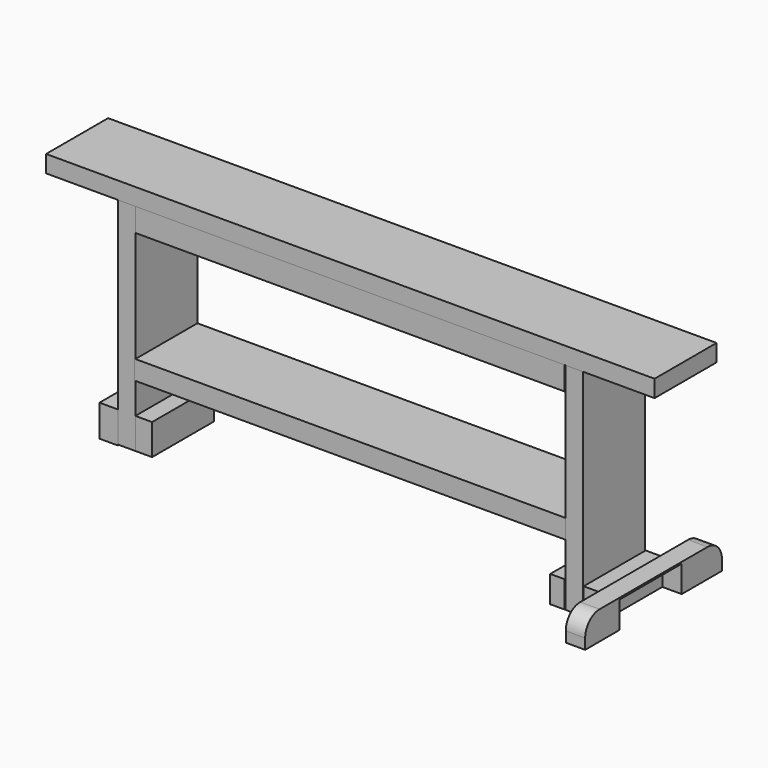
from build123d import *

# Parameters (mm, degrees)
F0_W      = 199.4095370173
F0_H      = 5.6075388566
F9_DEPTH  = 25.4
F1_W      = 5.7443082333
F1_H      = 70.5729266629
F2_W      = 5.7443156838
F2_H      = 70.5729266629
F3_W      = 6.0178413987
F3_H      = 10.394461453
F4_W      = 5.4707750678
F4_H      = 10.1209282875
F5_W      = 5.4707750678
F5_H      = 8.7532326579
F6_W      = 4.6501532197
F6_H      = 8.7532326579
F7_W      = 141.1458402872
F7_H      = 6.2913820148
F8_W      = 140.5987739563
F8_H      = 7.659076713
F11_DEPTH = 6.35


with BuildPart() as f9:
    # F0 (on Front) → F9 (new body)
    with BuildSketch(Plane.XZ):
        with Locations((-3.7253e-06, -2.8037694283)):
            Rectangle(F0_W, F0_H)
    extrude(amount=F9_DEPTH)


with BuildPart() as f9b:
    # F1 (on Front) → F9, piece 2 (new body)
    with BuildSketch(Plane.XZ):
        with Locations((-73.3083114028, -40.894002188)):
            Rectangle(F1_W, F1_H)
    extrude(amount=F9_DEPTH)


with BuildPart() as f9c:
    # F2 (on Front) → F9, piece 3 (new body)
    with BuildSketch(Plane.XZ):
        with Locations((73.3083076775, -40.894002188)):
            Rectangle(F2_W, F2_H)
    extrude(amount=F9_DEPTH)


with BuildPart() as f9d:
    # F3 (on Front) → F9, piece 4 (new body)
    with BuildSketch(Plane.XZ):
        with Locations((-79.1893862188, -71.2567679584)):
            Rectangle(F3_W, F3_H)
    extrude(amount=F9_DEPTH)


with BuildPart() as f9e:
    # F4 (on Front) → F9, piece 5 (new body)
    with BuildSketch(Plane.XZ):
        with Locations((-67.7007697523, -71.1200013757)):
            Rectangle(F4_W, F4_H)
    extrude(amount=F9_DEPTH)


with BuildPart() as f9f:
    # F5 (on Front) → F9, piece 6 (new body)
    with BuildSketch(Plane.XZ):
        with Locations((79.1893862188, -71.8038491905)):
            Rectangle(F5_W, F5_H)
    extrude(amount=F9_DEPTH)


with BuildPart() as f9g:
    # F6 (on Front) → F9, piece 7 (new body)
    with BuildSketch(Plane.XZ):
        with Locations((67.8375400603, -71.8038491905)):
            Rectangle(F6_W, F6_H)
    extrude(amount=F9_DEPTH)


with BuildPart() as f9h:
    # F7 (on Front) → F9, piece 8 (new body)
    with BuildSketch(Plane.XZ):
        with Locations((-0.136770308, -52.7929253876)):
            Rectangle(F7_W, F7_H)
    extrude(amount=F9_DEPTH)


with BuildPart() as f9i:
    # F8 (on Front) → F9, piece 9 (new body)
    with BuildSketch(Plane.XZ):
        with Locations((-0.136770308, -9.4370772131)):
            Rectangle(F8_W, F8_H)
    extrude(amount=F9_DEPTH)


with BuildPart() as f11:
    # F10 (on face) → F11 (new body)
    with BuildSketch(Plane.YZ.offset(81.9247737527)):
        with BuildLine():
            Line((10.5606193865, -66.8691918254), (-33.6384183938, -66.8691918254))
            ThreePointArc((-33.6384183938, -66.8691918254), (-37.8187583558, -68.600745333), (-39.5503118634, -72.7810852951))
            Line((-39.5503118634, -72.7810852951), (-39.5503118634, -76.1804655194))
            Line((-39.5503118634, -76.1804655194), (-25.4, -76.1804655194))
            Line((-25.4, -76.1804655194), (-25.4, -67.4272328615))
            Line((-25.4, -67.4272328615), (0, -67.4272328615))
            Line((0, -67.4272328615), (0, -76.1804655194))
            Line((0, -76.1804655194), (16.4725128561, -76.1804655194))
            Line((16.4725128561, -76.1804655194), (16.4725128561, -72.7810852951))
            ThreePointArc((16.4725128561, -72.7810852951), (14.7409593485, -68.600745333), (10.5606193865, -66.8691918254))
        make_face()
    extrude(amount=F11_DEPTH)


with BuildPart() as f12_1:
    # F12: copy of F11
    add(f11.part)


solid = Compound([f9.part, f9b.part, f9c.part, f9d.part, f9e.part, f9f.part, f9g.part, f9h.part, f9i.part, f11.part, f12_1.part])
